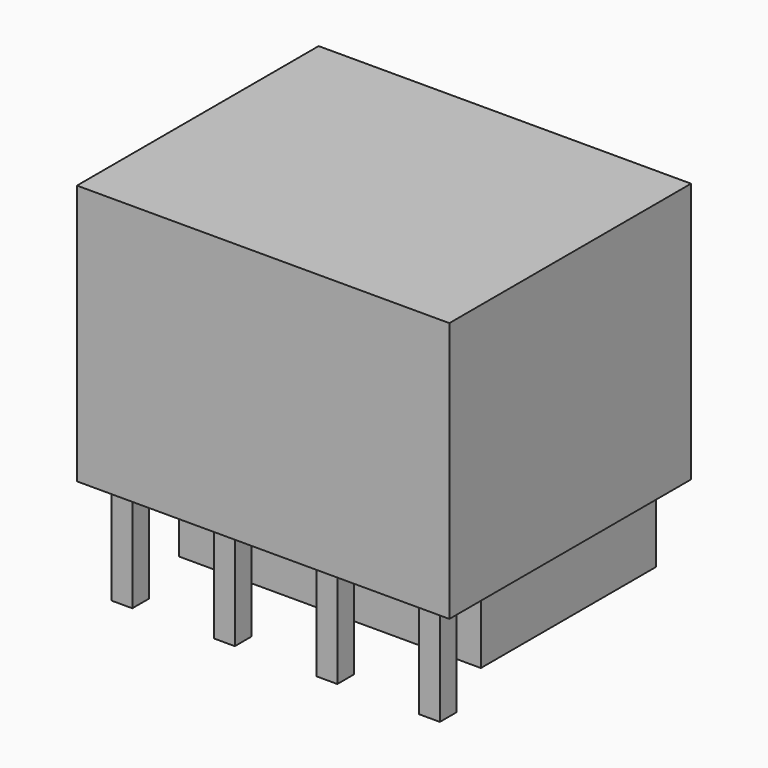
from build123d import *

# Parameters (mm, degrees)
F0_W     = 18.161
F0_H     = 14.732
F1_DEPTH = 12.7
F2_W     = 14.732
F2_H     = 10.668
F3_DEPTH = 4.318
F4_W     = 1.016
F4_H     = 1.016
F5_DEPTH = 5.08


with BuildPart() as f1:
    # F0 (on Top) → F1 (new body)
    with BuildSketch(Plane.XY):
        Rectangle(F0_W, F0_H)
    extrude(amount=F1_DEPTH)

    # F2 (on face) → F3 (join)
    with BuildSketch(Plane(origin=(0, 0, 0), x_dir=(1, 0, 0), z_dir=(0, 0, -1))):
        with Locations((0, -2.032)):
            Rectangle(F2_W, F2_H)
    extrude(amount=F3_DEPTH)

    # F4 (on face) → F5 (join)
    with BuildSketch(Plane(origin=(0, 0, 0), x_dir=(1, 0, 0), z_dir=(0, 0, -1))):
        with Locations((-7.49935, 6.096)):
            Rectangle(F4_W, F4_H)
        with Locations((-2.49936, 6.096)):
            Rectangle(F4_W, F4_H)
        with Locations((2.49936, 6.096)):
            Rectangle(F4_W, F4_H)
        with Locations((7.49935, 6.096)):
            Rectangle(F4_W, F4_H)
    extrude(amount=F5_DEPTH)


solid = f1.part
